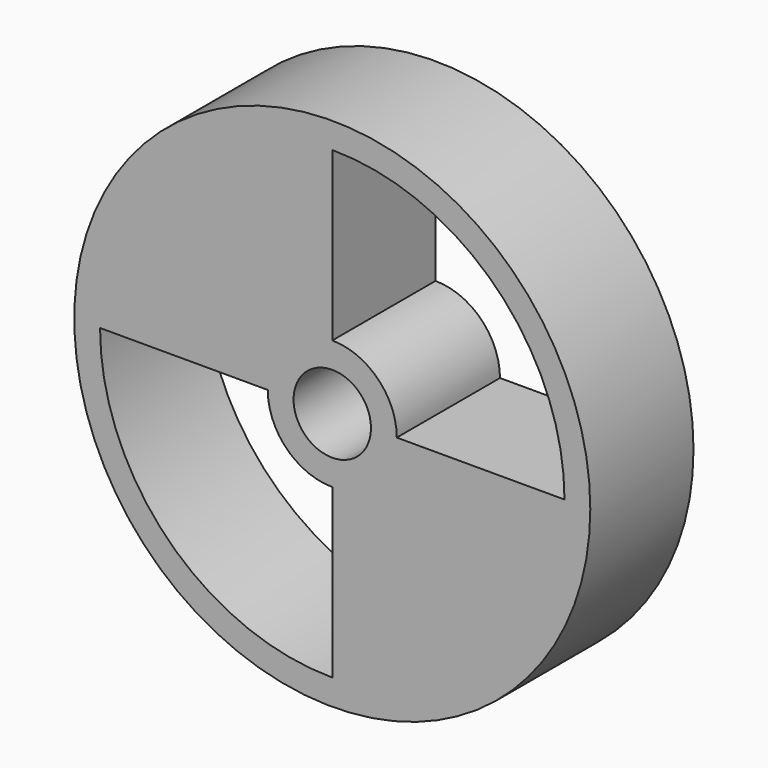
from build123d import *

# Parameters (mm, degrees)
F0_R     = 10
F0_R_2   = 1.5
F1_DEPTH = 5


with BuildPart() as f1:
    # F0 (on Front) → F1 (new body)
    with BuildSketch(Plane.XZ):
        with Locations((-28.449722, 11.878492)):
            Circle(F0_R)
        with BuildLine():
            ThreePointArc((-28.449722, 2.878492), (-34.813683, 5.514531), (-37.449722, 11.878492))
            Line((-37.449722, 11.878492), (-30.949722, 11.878492))
            ThreePointArc((-30.949722, 11.878492), (-30.217489, 10.110725), (-28.449722, 9.378492))
            Line((-28.449722, 9.378492), (-28.449722, 2.878492))
        make_face(mode=Mode.SUBTRACT)
        with Locations((-28.449722, 11.878492)):
            Circle(F0_R_2, mode=Mode.SUBTRACT)
        with BuildLine():
            ThreePointArc((-25.949722, 11.878492), (-26.681955, 13.646259), (-28.449722, 14.378492))
            Line((-28.449722, 14.378492), (-28.449722, 20.878492))
            ThreePointArc((-28.449722, 20.878492), (-22.085761, 18.242453), (-19.449722, 11.878492))
            Line((-19.449722, 11.878492), (-25.949722, 11.878492))
        make_face(mode=Mode.SUBTRACT)
    extrude(amount=F1_DEPTH)


solid = f1.part
